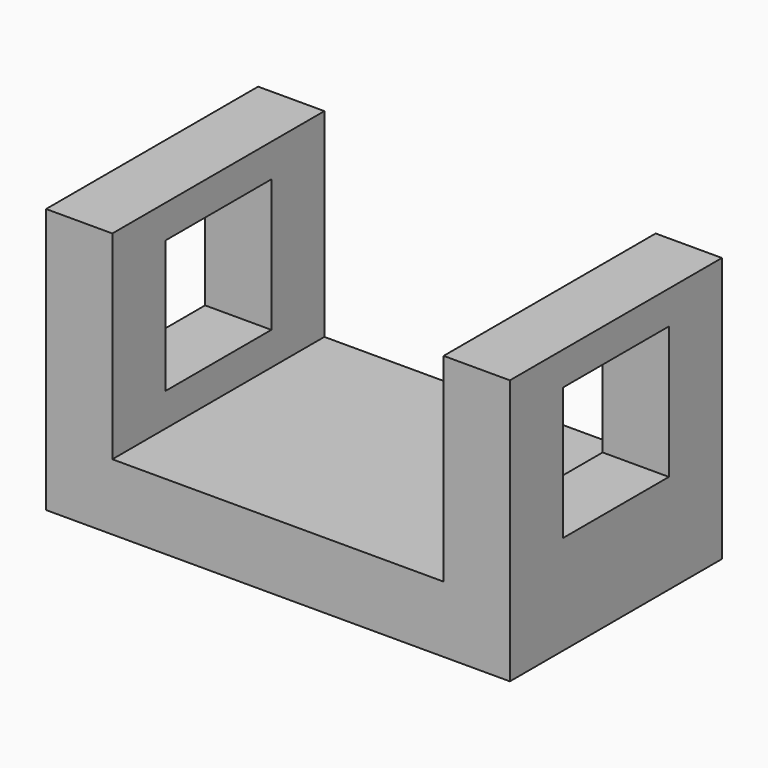
from build123d import *

# Parameters (mm, degrees)
F1_DEPTH = 50.8
F3_DEPTH = 12.7
F5_DEPTH = 12.7


with BuildPart() as f1:
    # F0 (on Front) → F1 (new body)
    with BuildSketch(Plane.XZ):
        Polygon((34.367143, 31.269368), (21.667143, 31.269368), (21.667143, -6.830632), (-41.832857, -6.830632), (-41.832857, 31.269368), (-54.532857, 31.269368), (-54.532857, -19.530632), (34.367143, -19.530632), align=None)
    extrude(amount=F1_DEPTH)

    # F2 (on face) → F3 (cut)
    with BuildSketch(Plane.YZ.offset(34.367143)):
        Polygon((-12.7, 24.885945), (-38.1, 24.885945), (-38.1, 13.350924), (-38.1, -0.514055), (-23.613039, -0.514055), (-12.7, -0.514055), align=None)
    extrude(amount=-F3_DEPTH, mode=Mode.SUBTRACT)

    # F4 (on face) → F5 (cut)
    with BuildSketch(Plane(origin=(-54.532857, 0, 0), x_dir=(0, -1, 0), z_dir=(-1, 0, 0))):
        Polygon((38.1, 24.919368), (12.7, 24.919368), (12.7, 9.009295), (12.7, -0.480632), (25.4, -0.480632), (38.1, -0.480632), align=None)
    extrude(amount=-F5_DEPTH, mode=Mode.SUBTRACT)


solid = f1.part
